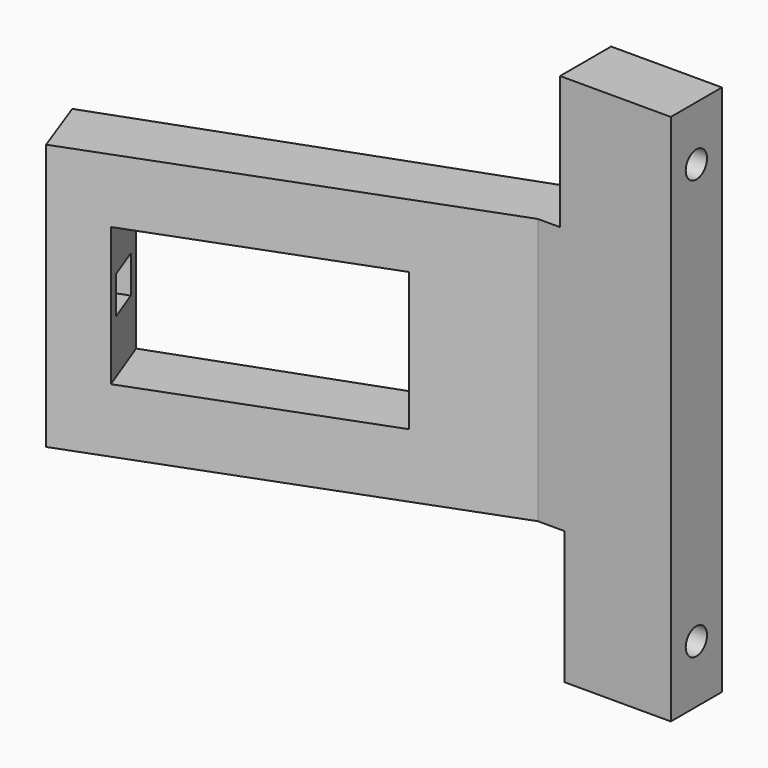
from build123d import *

# Parameters (mm, degrees)
F1_DEPTH  = 100
F3_W      = 46
F3_H      = 26
F4_DEPTH  = 25
F7_W      = 98.6057445407
F7_H      = 75.1156285405
F8_DEPTH  = 30
F10_W     = 97.911
F10_H     = 83.95
F11_DEPTH = 30
F15_R     = 2.5
F16_DEPTH = 30
F13_R     = 2.5
F17_DEPTH = 30
F19_W     = 7
F19_H     = 7
F20_DEPTH = 8
F22_W     = 7
F22_H     = 7
F23_DEPTH = 8


with BuildPart() as f1:
    # F0 (on Top) → F1 (new body)
    with BuildSketch(Plane.XY):
        Polygon((-25, 0), (0, 0), (0, 12), (-25, 12), (-100.1754096629, -15.3616114661), (-96.071167943, -26.6379229155), align=None)
    extrude(amount=F1_DEPTH)

    # F3 (on offset) → F4 (cut)
    with BuildSketch(Plane(origin=(-3.0794008865, 8.2159790861, 0), x_dir=(0.9363887892, 0.3509644362, 0), z_dir=(0.3509644362, -0.9363887892, 0))):
        with Locations((-66.3089282241, 50)):
            Rectangle(F3_W, F3_H)
    extrude(amount=-F4_DEPTH, mode=Mode.SUBTRACT)

    # F7 (on offset) → F8 (cut)
    with BuildSketch(Plane.XY.offset(105)):
        with Locations((-70.1127834618, -4.4539272785)):
            Rectangle(F7_W, F7_H)
    extrude(amount=-F8_DEPTH, mode=Mode.SUBTRACT)

    # F10 (on offset) → F11 (cut)
    with BuildSketch(Plane(origin=(0, 0, -5), x_dir=(1, 0, 0), z_dir=(0, 0, -1))):
        with Locations((-68.9555, -1.8251938164)):
            Rectangle(F10_W, F10_H)
    extrude(amount=-F11_DEPTH, mode=Mode.SUBTRACT)

    # F15 (on offset) → F16 (cut)
    with BuildSketch(Plane(origin=(-25, 0, 0), x_dir=(0, -1, 0), z_dir=(-1, 0, 0))):
        with Locations((-6, 10.8403703198)):
            Circle(F15_R)
    extrude(amount=-F16_DEPTH, mode=Mode.SUBTRACT)

    # F13 (on offset) → F17 (cut)
    with BuildSketch(Plane(origin=(-25.8099111915, 0, 0), x_dir=(0, -1, 0), z_dir=(-1, 0, 0))):
        with Locations((-6, 89.705966413)):
            Circle(F13_R)
    extrude(amount=-F17_DEPTH, mode=Mode.SUBTRACT)

    # F19 (on offset) → F20 (cut)
    with BuildSketch(Plane(origin=(-45.2359388073, -16.9547157565, 0), x_dir=(0.3509644362, -0.9363887892, 0), z_dir=(-0.9363887892, -0.3509644362, 0))):
        with Locations((-14.240679825, 50.5)):
            Rectangle(F19_W, F19_H)
    extrude(amount=-F20_DEPTH, mode=Mode.SUBTRACT)

    # F22 (on offset) → F23 (cut)
    with BuildSketch(Plane(origin=(-78.9459352184, -29.5894354589, 0), x_dir=(-0.3509644362, 0.9363887892, 0), z_dir=(0.9363887892, 0.3509644362, 0))):
        with Locations((14.6793034593, 50.5)):
            Rectangle(F22_W, F22_H)
    extrude(amount=-F23_DEPTH, mode=Mode.SUBTRACT)


solid = f1.part
